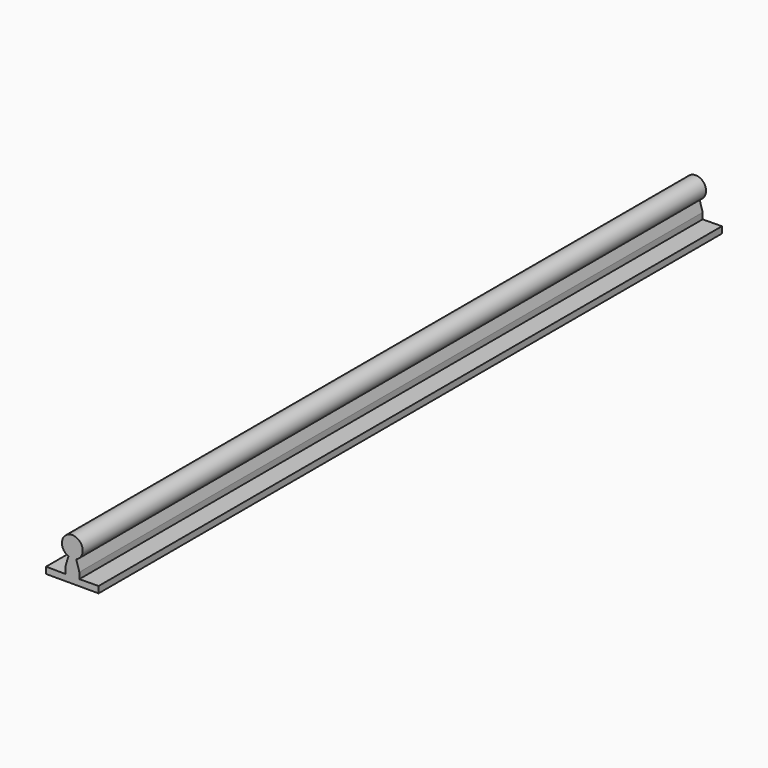
from build123d import *

# Parameters (mm, degrees)
F1_DEPTH = 600


with BuildPart() as f1:
    # F0 (on Front) → F1 (new body)
    with BuildSketch(Plane.XZ):
        with BuildLine():
            Line((5.400592, -15.418472), (3.027247, -7.405118))
            ThreePointArc((3.027247, -7.405118), (0, 8), (-3.027247, -7.405118))
            Line((-3.027247, -7.405118), (-5.400592, -15.418472))
            Line((-5.400592, -15.418472), (-5.400592, -20.151161))
            Line((-5.400592, -20.151161), (-20.206842, -20))
            Line((-20.206842, -20), (-20.206842, -25))
            Line((-20.206842, -25), (0, -25))
            Line((0, -25), (20.2184, -25))
            Line((20.2184, -25), (20.2184, -19.999882))
            Line((20.2184, -19.999882), (5.400592, -20.151161))
            Line((5.400592, -20.151161), (5.400592, -15.418472))
        make_face()
    extrude(amount=F1_DEPTH)


solid = f1.part
